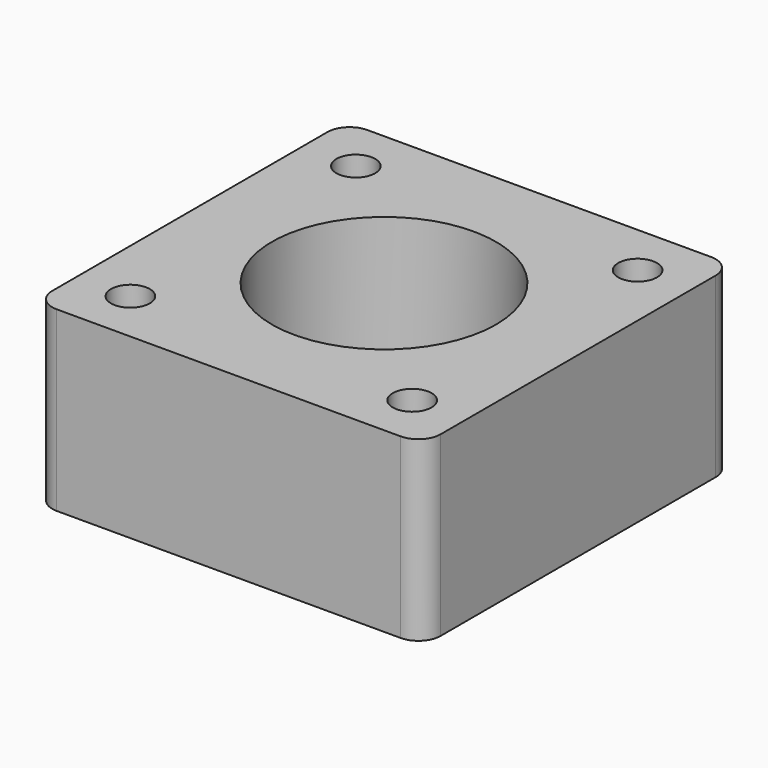
from build123d import *

# Parameters (mm, degrees)
F0_R     = 10.1
F1_DEPTH = 16
F3_D     = 3.5
F3_DEPTH = 6
F3_TIP   = 1.0515060833
F5_D     = 2
F5_DEPTH = 6
F5_TIP   = 0.600860619


with BuildPart() as f1:
    # F0 (on Top) → F1 (new body)
    with BuildSketch(Plane.XY):
        with BuildLine():
            Line((-15.5, -17.5), (15.5, -17.5))
            ThreePointArc((15.5, -17.5), (16.9142135624, -16.9142135624), (17.5, -15.5))
            Line((17.5, -15.5), (17.5, 15.5))
            ThreePointArc((17.5, 15.5), (16.9142135624, 16.9142135624), (15.5, 17.5))
            Line((15.5, 17.5), (-15.5, 17.5))
            ThreePointArc((-15.5, 17.5), (-16.9142135624, 16.9142135624), (-17.5, 15.5))
            Line((-17.5, 15.5), (-17.5, -15.5))
            ThreePointArc((-17.5, -15.5), (-16.9142135624, -16.9142135624), (-15.5, -17.5))
        make_face()
        Circle(F0_R, mode=Mode.SUBTRACT)
    extrude(amount=F1_DEPTH)

    # F3
    with Locations(Plane.XY.offset(16)):
        with Locations((-12.7, 12.7), (12.7, 12.7), (12.7, -12.7), (-12.7, -12.7)):
            Hole(F3_D / 2, depth=F3_DEPTH)
            with Locations((0, 0, -(F3_DEPTH + F3_TIP / 2))):  # 118° drill point
                Cone(0, F3_D / 2, F3_TIP, mode=Mode.SUBTRACT)

    # F5
    with Locations(Plane(origin=(0, 0, 0), x_dir=(1, 0, 0), z_dir=(0, 0, -1))):
        with Locations((0, 12), (10.3923048454, -6), (-10.3923048454, -6)):
            Hole(F5_D / 2, depth=F5_DEPTH)
            with Locations((0, 0, -(F5_DEPTH + F5_TIP / 2))):  # 118° drill point
                Cone(0, F5_D / 2, F5_TIP, mode=Mode.SUBTRACT)


solid = f1.part
